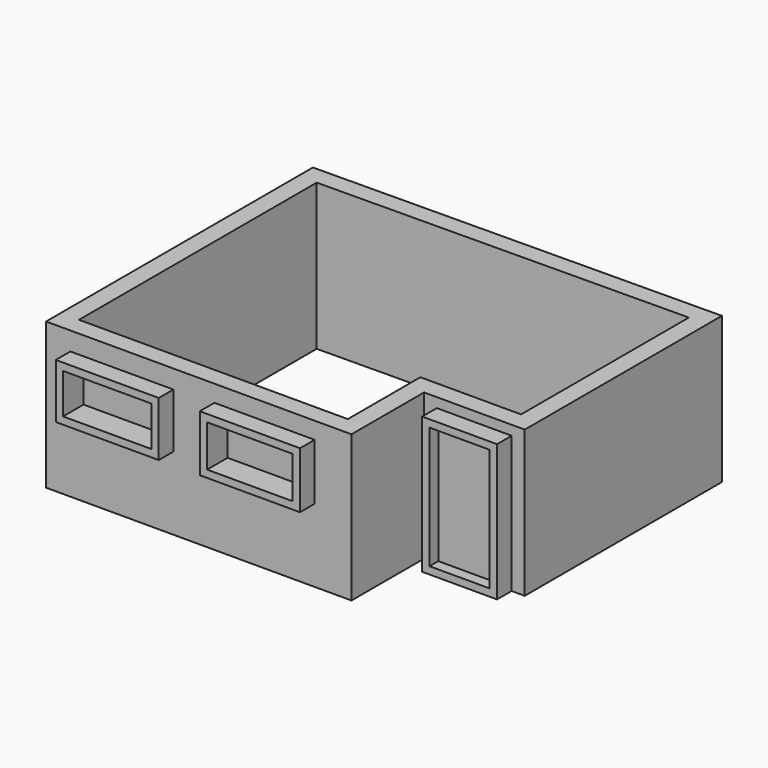
from build123d import *

# Parameters (mm, degrees)
F1_DEPTH = 25.4
F2_W     = 35.7521809638
F2_H     = 18.9824756235
F2_W_2   = 34.7827696241
F2_H_2   = 19.5560809225
F3_DEPTH = 6.35
F4_W     = 25.9840600193
F4_H     = 47.4477748662
F5_DEPTH = 6.35
F6_T     = -2.54
F6_2_T   = -2.54


with BuildPart() as f1:
    # F0 (on Top) → F1 (new body, symmetric)
    with BuildSketch(Plane.XY):
        Polygon((76.8418429255, 61.2986564827), (-64.1302062035, 60.0286343337), (-64.1302062035, -55.7520804763), (41.884825176, -55.7520804763), (41.884825176, -24.2618681699), (76.8418429255, -24.2618681699), align=None)
        Polygon((-57.7802062035, -49.4020804763), (-57.7802062035, 53.7355840206), (70.4918429255, 54.8911914229), (70.4918429255, -17.9118681699), (35.534825176, -17.9118681699), (35.534825176, -49.4020804763), align=None, mode=Mode.SUBTRACT)
    extrude(amount=F1_DEPTH, both=True)

    # F2 (on face) → F3 (join)
    with BuildSketch(Plane.XZ.offset(55.7520804763)):
        with Locations((-37.8169622272, 9.4912378117)):
            Rectangle(F2_W, F2_H)
        with Locations((11.697415961, 9.7780404612)):
            Rectangle(F2_W_2, F2_H_2)
    extrude(amount=F3_DEPTH)

    # F6
    f6_openings = [f1.faces().sort_by_distance(p)[0] for p in [
        (-37.816962, -62.10208, 9.491238),
        (11.697416, -62.10208, 9.77804),
    ]]
    offset(amount=F6_T, openings=f6_openings, kind=Kind.INTERSECTION)


with BuildPart() as f5:
    # F4 (on face) → F5 (new body)
    with BuildSketch(Plane.XZ.offset(24.2618681699)):
        with Locations((59.3077857047, -1.6761125669)):
            Rectangle(F4_W, F4_H)
    extrude(amount=F5_DEPTH)

    # F6#2
    f6_2_openings = [f5.faces().sort_by_distance(p)[0] for p in [
        (59.307786, -30.611868, -1.676113),
    ]]
    offset(amount=F6_2_T, openings=f6_2_openings)


solid = Compound([f1.part, f5.part])
